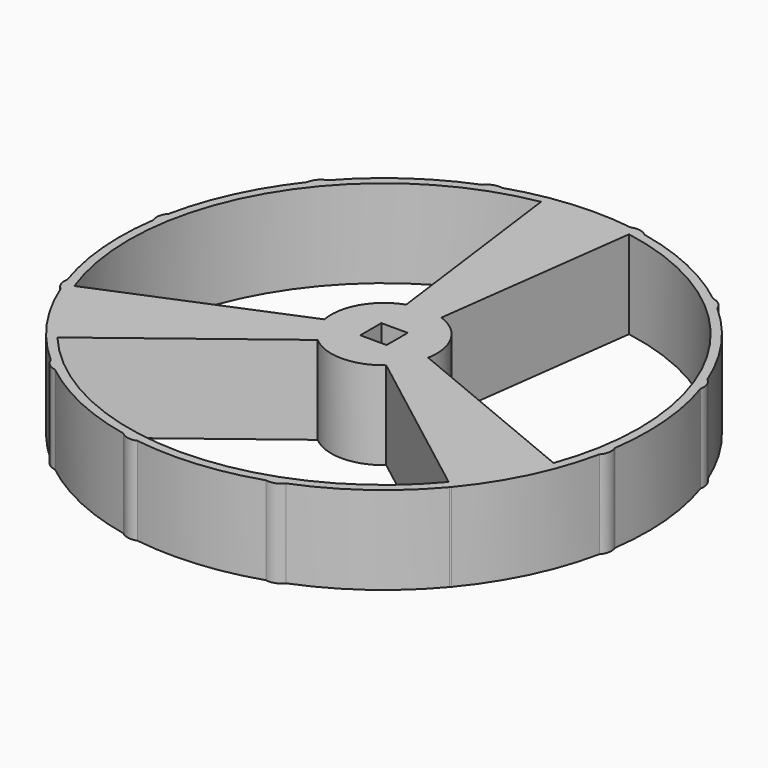
from build123d import *

# Parameters (mm, degrees)
SKETCH_W  = 3
SKETCH_H  = 3
PAD_DEPTH = 10


with BuildPart() as part:
    # Sketch → Pad (new body)
    with BuildSketch(Plane.XY):
        with BuildLine():
            ThreePointArc((29.690766, -4.296324), (29.885841, 2.614672), (28.493648, 9.3868))
            ThreePointArc((28.493648, 9.3868), (28.425702, 10.346109), (27.86112, 11.124658))
            ThreePointArc((27.86112, 11.124658), (24.574561, 17.207293), (19.982823, 22.376032))
            ThreePointArc((19.982823, 22.376032), (19.444325, 23.172844), (18.566109, 23.564796))
            ThreePointArc((18.566109, 23.564796), (12.678548, 27.189234), (6.117616, 29.369623))
            ThreePointArc((6.117616, 29.369623), (5.252857, 29.790435), (4.296324, 29.690766))
            ThreePointArc((4.296324, 29.690766), (-2.614672, 29.885841), (-9.3868, 28.493648))
            ThreePointArc((-9.3868, 28.493648), (-10.346109, 28.425702), (-11.124658, 27.86112))
            ThreePointArc((-11.124658, 27.86112), (-17.207293, 24.574561), (-22.376032, 19.982823))
            ThreePointArc((-22.376032, 19.982823), (-23.172844, 19.444325), (-23.564796, 18.566109))
            ThreePointArc((-23.564796, 18.566109), (-27.189234, 12.678548), (-29.369623, 6.117616))
            ThreePointArc((-29.369623, 6.117616), (-29.790435, 5.252857), (-29.690766, 4.296324))
            ThreePointArc((-29.690766, 4.296324), (-29.885841, -2.614672), (-28.493648, -9.3868))
            ThreePointArc((-28.493648, -9.3868), (-28.425702, -10.346109), (-27.86112, -11.124658))
            ThreePointArc((-27.86112, -11.124658), (-24.574561, -17.207293), (-19.982823, -22.376032))
            ThreePointArc((-19.982823, -22.376032), (-19.444325, -23.172844), (-18.566109, -23.564796))
            ThreePointArc((-18.566109, -23.564796), (-12.678548, -27.189234), (-6.117616, -29.369623))
            ThreePointArc((-6.117616, -29.369623), (-5.252857, -29.790435), (-4.296324, -29.690766))
            ThreePointArc((-4.296324, -29.690766), (2.614672, -29.885841), (9.3868, -28.493648))
            ThreePointArc((9.3868, -28.493648), (10.346109, -28.425702), (11.124658, -27.86112))
            ThreePointArc((11.124658, -27.86112), (17.552516, -24.329184), (22.931281, -19.343122))
            ThreePointArc((22.931281, -19.343122), (22.98258, -19.284674), (23.031232, -19.224005))
            ThreePointArc((23.031232, -19.224005), (27.007531, -13.061135), (29.369623, -6.117616))
            ThreePointArc((29.369623, -6.117616), (29.790435, -5.252857), (29.690766, -4.296324))
        make_face()
        with BuildLine():
            ThreePointArc((27.238634, -9.95273), (25.114737, 14.5), (5, 28.565714))
            Line((5, 28.565714), (2, 5.656854))
            ThreePointArc((5.898979, -1.096376), (5.196152, 3), (2, 5.656854))
            Line((5.898979, -1.096376), (27.238634, -9.95273))
        make_face(mode=Mode.SUBTRACT)
        with BuildLine():
            ThreePointArc((-22.238634, -18.612984), (0, -29), (22.238634, -18.612984))
            Line((3.898979, -4.560478), (22.238634, -18.612984))
            ThreePointArc((-3.898979, -4.560478), (0, -6), (3.898979, -4.560478))
            Line((-3.898979, -4.560478), (-22.238634, -18.612984))
        make_face(mode=Mode.SUBTRACT)
        with BuildLine():
            ThreePointArc((-5, 28.565714), (-25.114737, 14.5), (-27.238634, -9.95273))
            Line((-5.898979, -1.096376), (-27.238634, -9.95273))
            ThreePointArc((-2, 5.656854), (-5.196152, 3), (-5.898979, -1.096376))
            Line((-5, 28.565714), (-2, 5.656854))
        make_face(mode=Mode.SUBTRACT)
        Rectangle(SKETCH_W, SKETCH_H, mode=Mode.SUBTRACT)
    extrude(amount=PAD_DEPTH)


solid = part.part
